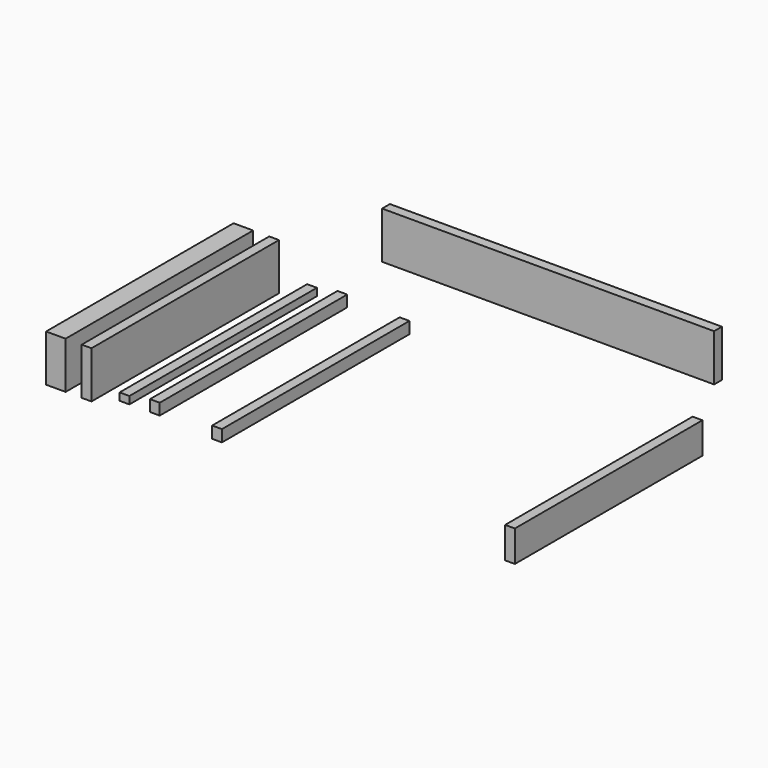
from build123d import *

# Parameters (mm, degrees)
F0_W     = 850
F0_H     = 120
F1_DEPTH = 25
F2_W     = 25
F2_H     = 30
F2_H_2   = 80
F3_DEPTH = 600
F4_W     = 25
F4_H     = 120
F4_H_2   = 19
F4_H_3   = 29
F4_W_2   = 50
F5_DEPTH = 600


with BuildPart() as f1:
    # F0 (on Front) → F1 (new body)
    with BuildSketch(Plane.XZ):
        Rectangle(F0_W, F0_H)
    extrude(amount=F1_DEPTH)


with BuildPart() as f3:
    # F2 (on Front) → F3 (new body)
    with BuildSketch(Plane.XZ):
        with Locations((-387.5, -202.127264)):
            Rectangle(F2_W, F2_H)
        with Locations((362.5, -207.127264)):
            Rectangle(F2_W, F2_H_2)
    extrude(amount=F3_DEPTH)


with BuildPart() as f5:
    # F4 (on Front) → F5 (new body)
    with BuildSketch(Plane.XZ):
        with Locations((-721.43364, -173.450828)):
            Rectangle(F4_W, F4_H)
        with Locations((-624.349403, -198.984158)):
            Rectangle(F4_W, F4_H_2)
        with Locations((-546.745348, -193.984158)):
            Rectangle(F4_W, F4_H_3)
        with Locations((-800.158083, -173.450828)):
            Rectangle(F4_W_2, F4_H)
    extrude(amount=F5_DEPTH)


solid = Compound([f1.part, f3.part, f5.part])
